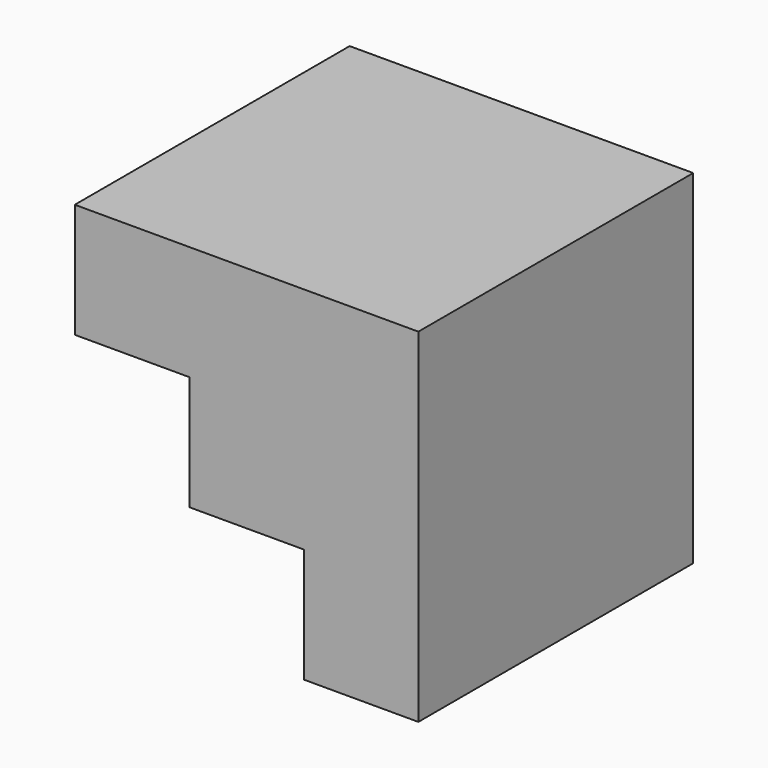
from build123d import *

# Parameters (mm, degrees)
F0_W     = 76.2
F0_H     = 76.2
F2_DEPTH = 76.2
F1_W     = 50.8
F1_H     = 25.4
F3_DEPTH = 164.592
F4_W     = 25.4
F4_H     = 25.4
F5_DEPTH = 76.2


with BuildPart() as f2:
    # F0 (on Front) → F2 (new body)
    with BuildSketch(Plane.XZ):
        with Locations((38.1, 38.1)):
            Rectangle(F0_W, F0_H)
    extrude(amount=F2_DEPTH)

    # F1 (on Front) → F3 (cut)
    with BuildSketch(Plane.XZ):
        with Locations((25.4, 12.7)):
            Rectangle(F1_W, F1_H)
    extrude(amount=F3_DEPTH, mode=Mode.SUBTRACT)

    # F4 (on face) → F5 (cut)
    with BuildSketch(Plane.XZ.offset(76.2)):
        with Locations((12.7, 38.1)):
            Rectangle(F4_W, F4_H)
    extrude(amount=-F5_DEPTH, mode=Mode.SUBTRACT)


solid = f2.part
